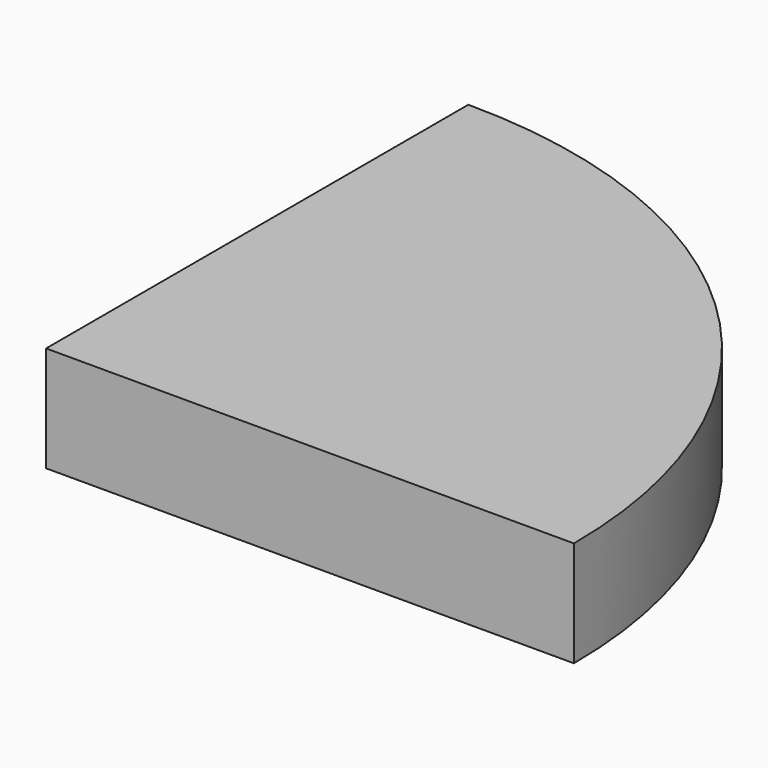
from build123d import *

# Parameters (mm, degrees)
F1_DEPTH = 10


with BuildPart() as f1:
    # F0 (on Top) → F1 (new body, symmetric)
    with BuildSketch(Plane.XY):
        with BuildLine():
            Line((0, 100), (0, 0))
            Line((0, 0), (100, 0))
            ThreePointArc((100, 0), (70.710678, 70.710678), (0, 100))
        make_face()
    extrude(amount=F1_DEPTH, both=True)


solid = f1.part
